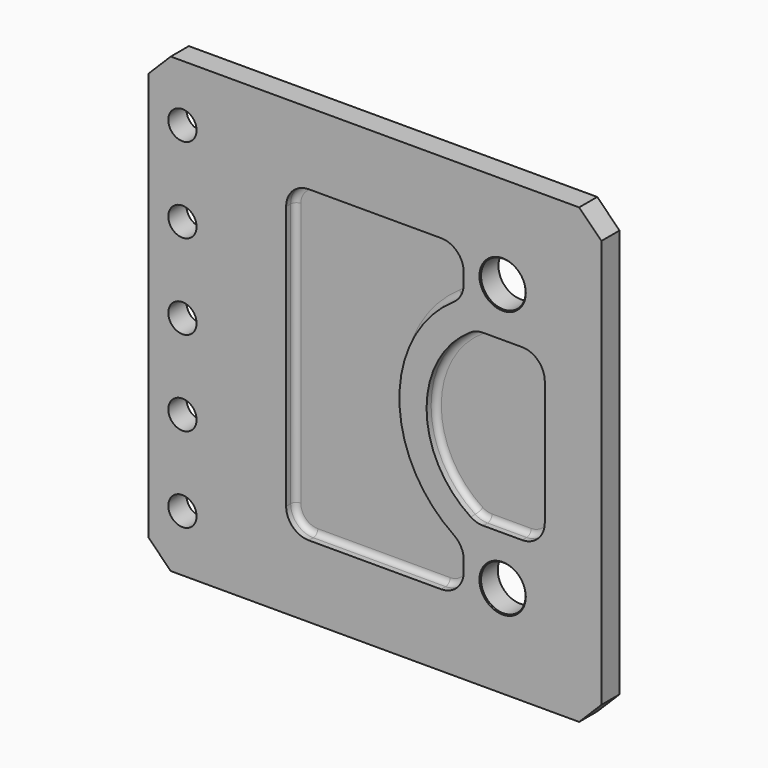
from build123d import *

# Parameters (mm, degrees)
F0_W      = 101.6
F0_H      = 101.6
F1_DEPTH  = 5.08
F3_D      = 6.35
F5_DEPTH  = 2.54
F6_R      = 5.08
F7_R      = 1.27
F9_DEPTH  = 2.54
F10_R     = 5.08
F11_R     = 1.27
F12_R     = 5
F13_DEPTH = 25
F14_SIZE  = 0.2
F15_SIZE  = 5


with BuildPart() as f1:
    # F0 (on Front) → F1 (new body)
    with BuildSketch(Plane.XZ):
        Rectangle(F0_W, F0_H)
    extrude(amount=F1_DEPTH)

    # F3 (through all)
    with Locations(Plane(origin=(0, 0, 0), x_dir=(1, 0, 0), z_dir=(0, 1, 0))):
        with Locations((-43.18, 38.1), (-43.18, 19.05), (-43.18, 0), (-43.18, -19.05), (-43.18, -38.1)):
            Hole(F3_D / 2)

    # F4 (on face) → F5 (cut)
    with BuildSketch(Plane.XZ.offset(5.08)):
        with BuildLine():
            Line((-19.9187304825, 34.667711705), (-19.9187304825, -34.667711705))
            Line((-19.9187304825, -34.667711705), (19.9187304825, -34.667711705))
            Line((19.9187304825, -34.667711705), (19.9187304825, -24.3936947418))
            ThreePointArc((19.9187304825, -24.3936947418), (5.4860749886, 0), (19.9187304825, 24.3936947418))
            Line((19.9187304825, 24.3936947418), (19.9187304825, 34.667711705))
            Line((19.9187304825, 34.667711705), (-19.9187304825, 34.667711705))
        make_face()
    extrude(amount=-F5_DEPTH, mode=Mode.SUBTRACT)

    # F6
    f6_edges = [f1.edges().sort_by_distance(p)[0] for p in [
        (-19.91873, -3.81, 34.667712),
        (19.91873, -3.81, 34.667712),
        (19.91873, -3.81, 24.393695),
        (19.91873, -3.81, -24.393695),
        (19.91873, -3.81, -34.667712),
        (-19.91873, -3.81, -34.667712),
    ]]
    fillet(f6_edges, radius=F6_R)

    # F7
    f7_edges = [f1.edges().sort_by_distance(p)[0] for p in [
        (19.91873, -2.54, 28.410832),
        (19.327372, -2.54, 24.855192),
        (18.430833, -2.54, 33.179814),
        (5.486075, -2.54, 0),
        (0, -2.54, 34.667712),
        (19.327372, -2.54, -24.855192),
        (-18.430833, -2.54, 33.179814),
        (19.91873, -2.54, -28.410832),
        (-19.91873, -2.54, 0),
        (18.430833, -2.54, -33.179814),
        (-18.430833, -2.54, -33.179814),
        (0, -2.54, -34.667712),
    ]]
    fillet(f7_edges, radius=F7_R)

    # F8 (on face) → F9 (cut)
    with BuildSketch(Plane.XZ.offset(5.08)):
        with BuildLine():
            Line((38.1, 19.05), (22.8523529701, 19.05))
            ThreePointArc((22.8523529701, 19.05), (11.5820746869, 0), (22.8523529701, -19.05))
            Line((22.8523529701, -19.05), (38.1, -19.05))
            Line((38.1, -19.05), (38.1, 19.05))
        make_face()
    extrude(amount=-F9_DEPTH, mode=Mode.SUBTRACT)

    # F10
    f10_edges = [f1.edges().sort_by_distance(p)[0] for p in [
        (22.852353, -3.81, 19.05),
        (38.1, -3.81, 19.05),
        (38.1, -3.81, -19.05),
        (22.852353, -3.81, -19.05),
    ]]
    fillet(f10_edges, radius=F10_R)

    # F11
    f11_edges = [f1.edges().sort_by_distance(p)[0] for p in [
        (28.634501, -2.54, -19.05),
        (22.8067, -2.54, -18.840951),
        (36.612102, -2.54, -17.562102),
        (11.582075, -2.54, 0),
        (38.1, -2.54, 0),
        (22.8067, -2.54, 18.840951),
        (36.612102, -2.54, 17.562102),
        (28.634501, -2.54, 19.05),
    ]]
    fillet(f11_edges, radius=F11_R)

    # F12 (on face) → F13 (cut)
    with BuildSketch(Plane.XZ.offset(5.08)):
        with Locations((28.6345014435, 30)):
            Circle(F12_R)
        with Locations((28.6345014435, -30)):
            Circle(F12_R)
    extrude(amount=-F13_DEPTH, mode=Mode.SUBTRACT)

    # F14
    f14_edges = [f1.edges().sort_by_distance(p)[0] for p in [
        (23.634501, -5.08, 30),
        (23.634501, -5.08, -30),
        (33.634501, -2.54, -30),
        (23.634501, 0, -30),
    ]]
    chamfer(f14_edges, length=F14_SIZE)

    # F15
    f15_edges = [f1.edges().sort_by_distance(p)[0] for p in [
        (50.8, -2.54, -50.8),
        (50.8, -2.54, 50.8),
        (-50.8, -2.54, -50.8),
        (-50.8, -2.54, 50.8),
    ]]
    chamfer(f15_edges, length=F15_SIZE)


solid = f1.part
